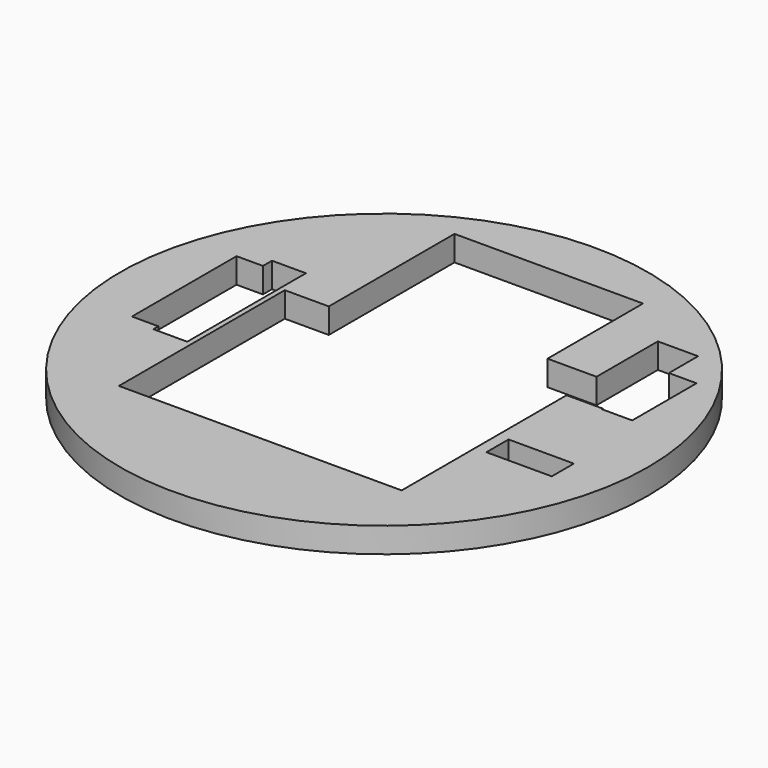
from build123d import *

# Parameters (mm, degrees)
BOX326_W          = 22.5
BOX326_H          = 16.5
BOX326_DEPTH      = 2
BOX327_W          = 15
BOX327_H          = 12.5
BOX327_DEPTH      = 2
BOX319_W          = 2.4
BOX319_H          = 6.4
BOX319_DEPTH      = 2
BOX349_W          = 3.2
BOX349_H          = 9.2
BOX349_DEPTH      = 2
BOX340_W          = 5.2
BOX340_H          = 2.2
BOX340_DEPTH      = 2
BOX339_W          = 2.7
BOX339_H          = 11.8
BOX339_DEPTH      = 2
BOX338_W          = 4
BOX338_H          = 3
BOX338_DEPTH      = 2
BOX320_W          = 2.2
BOX320_H          = 10.4
BOX320_DEPTH      = 2
CYLINDER405_R     = 21
CYLINDER405_DEPTH = 2


with BuildPart() as box326:
    # Box326 → Box326 (new body)
    with BuildSketch(Plane(origin=(-11.5, -12, 76), x_dir=(1, 0, 0), z_dir=(0, 0, 1))):
        with Locations((11.25, 8.25)):
            Rectangle(BOX326_W, BOX326_H)
    extrude(amount=BOX326_DEPTH)


with BuildPart() as box327:
    # Box327 → Box327 (new body)
    with BuildSketch(Plane(origin=(-8, 4.5, 76), x_dir=(1, 0, 0), z_dir=(0, 0, 1))):
        with Locations((7.5, 6.25)):
            Rectangle(BOX327_W, BOX327_H)
    extrude(amount=BOX327_DEPTH)


with BuildPart() as cut_out_narrow_pole:
    # Box319 → Box319 (new body)
    with BuildSketch(Plane(origin=(13.9, 4.3, 76), x_dir=(1, 0, 0), z_dir=(0, 0, 1))):
        with Locations((1.2, 3.2)):
            Rectangle(BOX319_W, BOX319_H)
    extrude(amount=BOX319_DEPTH)


with BuildPart() as box349:
    # Box349 → Box349 (new body)
    with BuildSketch(Plane(origin=(10.9, 4.4, 76), x_dir=(1, 0, 0), z_dir=(0, 0, 1))):
        with Locations((1.6, 4.6)):
            Rectangle(BOX349_W, BOX349_H)
    extrude(amount=BOX349_DEPTH)


with BuildPart() as box340:
    # Box340 → Box340 (new body)
    with BuildSketch(Plane(origin=(11.9, -4.7, 76), x_dir=(1, 0, 0), z_dir=(0, 0, 1))):
        with Locations((2.6, 1.1)):
            Rectangle(BOX340_W, BOX340_H)
    extrude(amount=BOX340_DEPTH)


with BuildPart() as box339:
    # Box339 → Box339 (new body)
    with BuildSketch(Plane(origin=(-14.6, -4.7, 76), x_dir=(1, 0, 0), z_dir=(0, 0, 1))):
        with Locations((1.35, 5.9)):
            Rectangle(BOX339_W, BOX339_H)
    extrude(amount=BOX339_DEPTH)


with BuildPart() as obj1:
    # Box338 → Box338 (new body)
    with BuildSketch(Plane(origin=(7, 4.5, 76), x_dir=(1, 0, 0), z_dir=(0, 0, 1))):
        with Locations((2, 1.5)):
            Rectangle(BOX338_W, BOX338_H)
    extrude(amount=BOX338_DEPTH)


with BuildPart() as cut_outs002:
    # Box320 → Box320 (new body)
    with BuildSketch(Plane(origin=(-16.7, -4.2, 76), x_dir=(1, 0, 0), z_dir=(0, 0, 1))):
        with Locations((1.1, 5.2)):
            Rectangle(BOX320_W, BOX320_H)
    extrude(amount=BOX320_DEPTH)

    # Fusion090: union Box326, Box327, Cut-out narrow pole, Box349, Box340, Box339, obj1
    add(box326.part)
    add(box327.part)
    add(cut_out_narrow_pole.part)
    add(box349.part)
    add(box340.part)
    add(box339.part)
    add(obj1.part)


with BuildPart() as baseplate:
    # Cylinder405 → Cylinder405 (new body)
    with BuildSketch(Plane.XY.offset(76)):
        Circle(CYLINDER405_R)
    extrude(amount=CYLINDER405_DEPTH)

    # Cut228: cut cut-outs002
    add(cut_outs002.part, mode=Mode.SUBTRACT)


solid = baseplate.part
